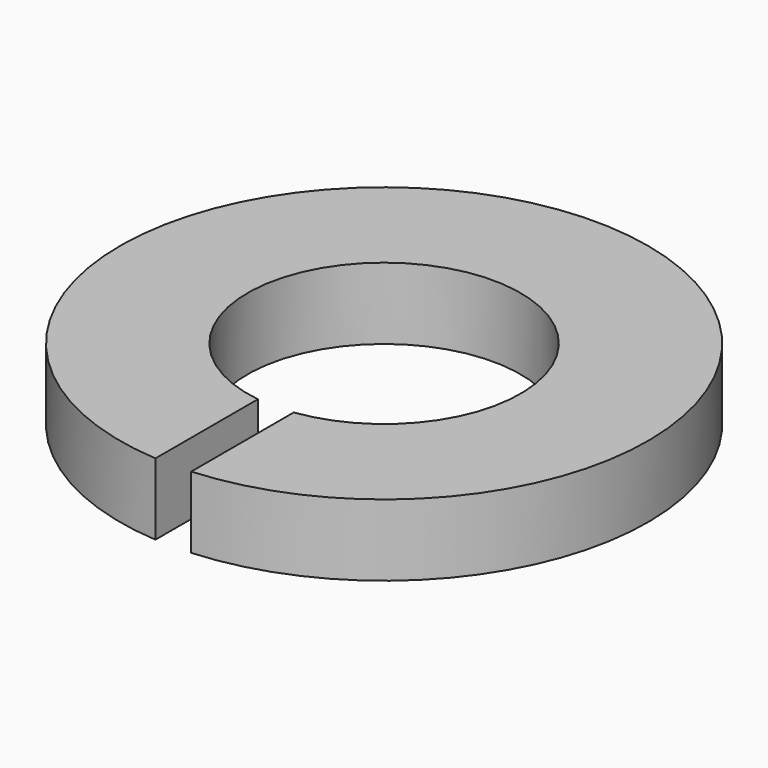
from build123d import *

# Parameters (mm, degrees)
PAD_DEPTH = 0.8


with BuildPart() as part:
    # Sketch → Pad (new body, symmetric)
    with BuildSketch(Plane.XY):
        with BuildLine():
            ThreePointArc((0.4, -3.023657), (0, 3.05), (-0.4, -3.023657))
            Line((-0.4, -5.886425), (-0.4, -3.023657))
            ThreePointArc((0.4, -5.886425), (0, 5.9), (-0.4, -5.886425))
            Line((0.4, -3.023657), (0.4, -5.886425))
        make_face()
    extrude(amount=PAD_DEPTH, both=True)


solid = part.part
